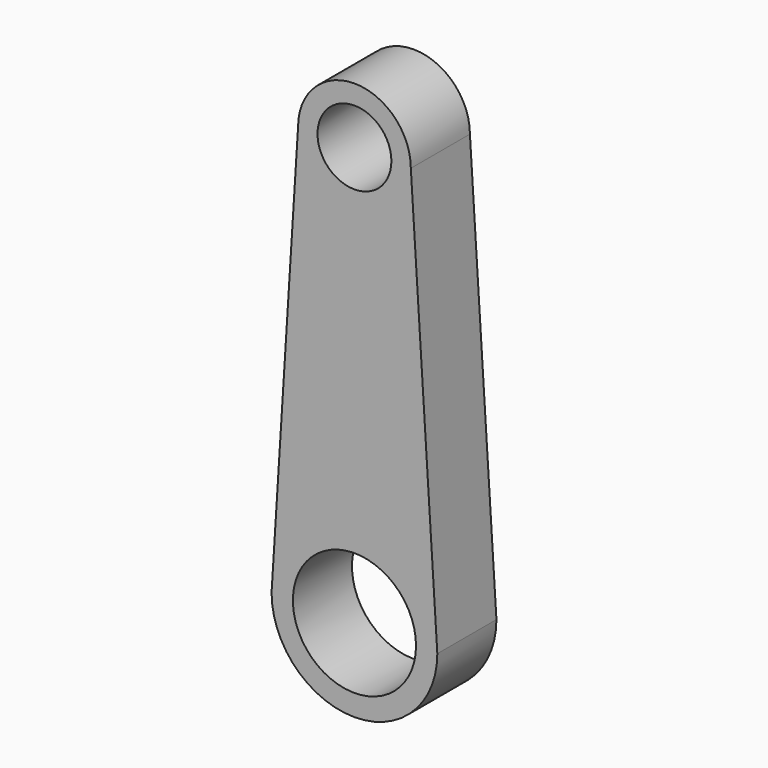
from build123d import *

# Parameters (mm, degrees)
F0_R     = 6.35
F0_R_2   = 3.81
F1_DEPTH = 7.62


with BuildPart() as f1:
    # F0 (on Front) → F1 (new body)
    with BuildSketch(Plane.XZ):
        with BuildLine():
            ThreePointArc((-8.547501, -17.972921), (0, -26.520421), (8.547501, -17.972921))
            Line((8.547501, -17.972921), (5.813845, 25.207079))
            ThreePointArc((5.813845, 25.207079), (0, 31.020925), (-5.813845, 25.207079))
            Line((-5.813845, 25.207079), (-8.547501, -17.972921))
        make_face()
        with Locations((0, -17.972921)):
            Circle(F0_R, mode=Mode.SUBTRACT)
        with Locations((0, 25.207079)):
            Circle(F0_R_2, mode=Mode.SUBTRACT)
    extrude(amount=F1_DEPTH)


solid = f1.part
